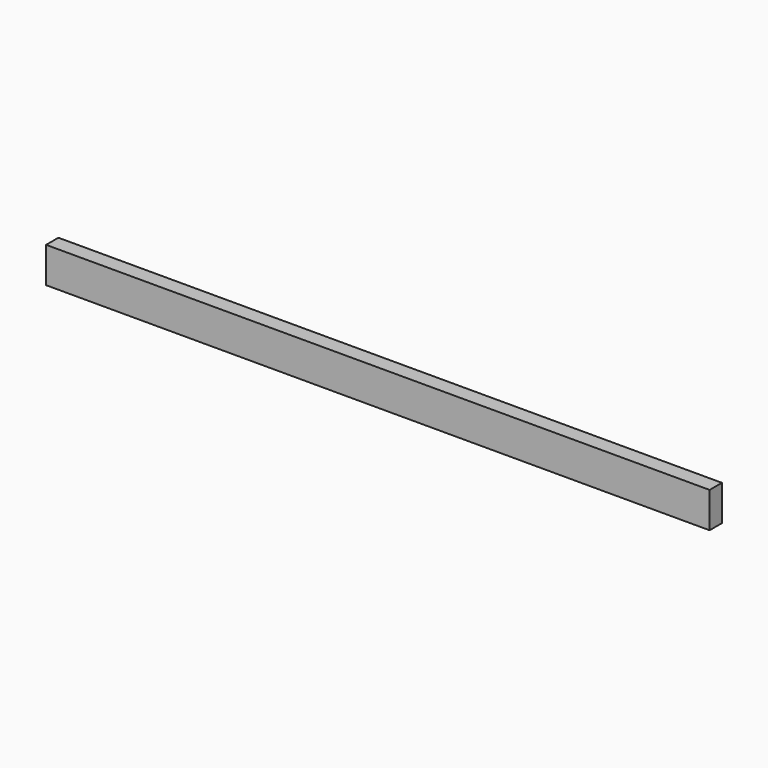
from build123d import *

# Parameters (mm, degrees)
BOX_W     = 1120
BOX_H     = 26
BOX_DEPTH = 60


with BuildPart() as part:
    # Box → Box (new body)
    with BuildSketch(Plane.XY):
        with Locations((560, 13)):
            Rectangle(BOX_W, BOX_H)
    extrude(amount=BOX_DEPTH)


solid = part.part
